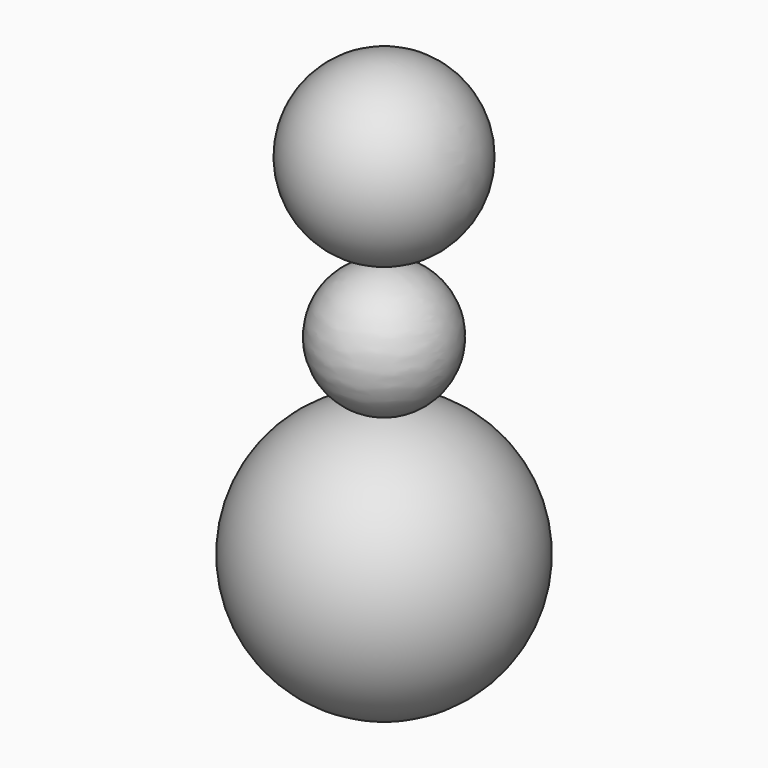
from build123d import *


with BuildPart() as f1:
    # F0 (on Front) → F1 (revolve)
    with BuildSketch(Plane.XZ):
        with BuildLine():
            Line((0, 27.371842), (0, 0))
            ThreePointArc((0, 0), (13.685921, 13.685921), (0, 27.371842))
        make_face()
    revolve(axis=Axis((0, 0, 13.685921), (0, 0, 1)))

    # F2 (on Front) → F3 (revolve)
    with BuildSketch(Plane.XZ):
        with BuildLine():
            Line((0, 40.30579), (0, 27.071053))
            ThreePointArc((0, 27.071053), (6.617368, 33.688421), (0, 40.30579))
        make_face()
    revolve(axis=Axis((0, 0, 33.688421), (0, 0, 1)))


with BuildPart() as f5:
    # F4 (on Front) → F5 (revolve)
    with BuildSketch(Plane.XZ):
        with BuildLine():
            Line((0, 59.255525), (0, 41.208159))
            ThreePointArc((0, 41.208159), (9.023683, 50.231842), (0, 59.255525))
        make_face()
    revolve(axis=Axis((0, 0, 50.231842), (0, 0, 1)))


solid = Compound([f1.part, f5.part])
